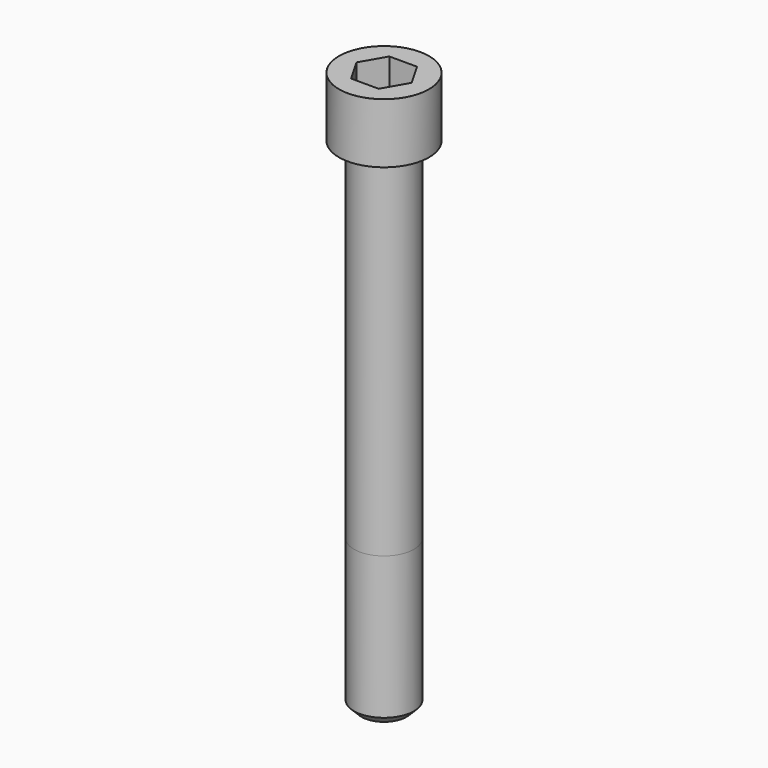
from build123d import *

# Parameters (mm, degrees)
POCKET_DEPTH = 19.15


with BuildPart() as part:
    # Sketch → Revolve (revolve)
    with BuildSketch(Plane.YZ):
        with BuildLine():
            Line((11.999, 0), (18, 0))
            Line((18, 0), (18, 23.97229))
            ThreePointArc((18, 23.97229), (17.991884, 23.991884), (17.97229, 24))
            Line((17.97229, 24), (0, 24))
            Line((0, -200), (0, 24))
            Line((9, -200), (0, -200))
            Line((12, -197), (9, -200))
            Line((12, -140), (12, -197))
            Line((11.999, 0), (12, -140))
        make_face()
    revolve(axis=Axis((0, 0, 0), (0, 0, 1)))

    # Sketch001 → Pocket (cut)
    with BuildSketch(Plane.XY.offset(24)):
        Polygon((11.056258, 0), (5.528129, 9.575), (-5.528129, 9.575), (-11.056258, 0), (-5.528129, -9.575), (5.528129, -9.575), align=None)
    extrude(amount=-POCKET_DEPTH, mode=Mode.SUBTRACT)


solid = part.part
